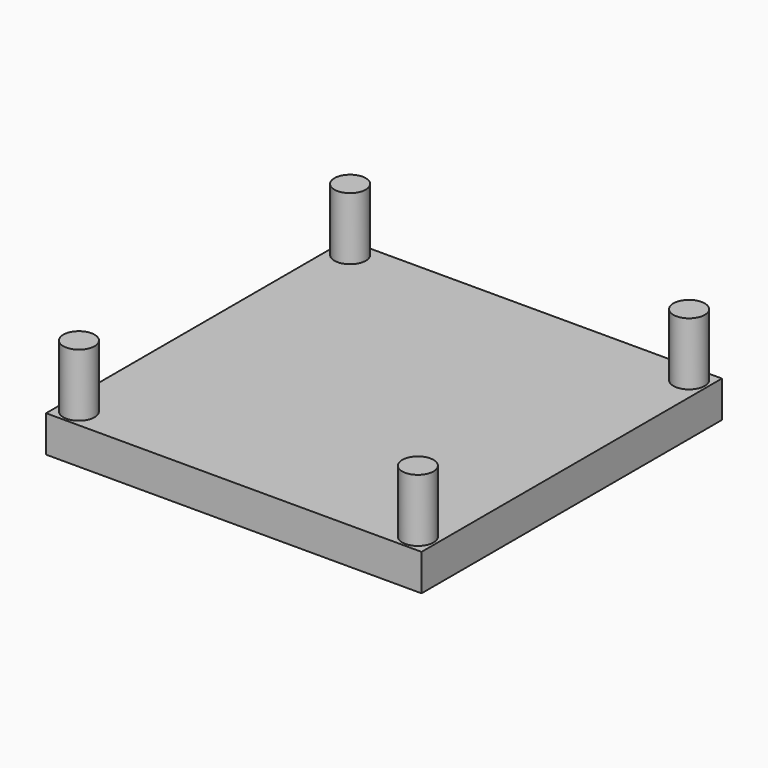
from build123d import *

# Parameters (mm, degrees)
F0_R     = 1.5
F1_DEPTH = 6
F0_W     = 36
F0_H     = 36
F2_DEPTH = 3.5
F3_W     = 4.283436
F3_H     = 8.566872
F3_W_2   = 14.717445
F3_H_2   = 3.624444
F3_R     = 2.438662
F3_W_3   = 1.64748
F3_H_3   = 11.75199
F3_R_2   = 1.537643
F3_W_4   = 4.173603
F3_H_4   = 16.145259
F3_R_3   = 4.79752
F4_DEPTH = 0.5


with BuildPart() as f1:
    # F0 (on Top) → F1 (new body)
    with BuildSketch(Plane.XY):
        with Locations((1.75, 34.25)):
            Circle(F0_R)
        with Locations((34.25, 34.25)):
            Circle(F0_R)
        with Locations((34.25, 1.75)):
            Circle(F0_R)
        with Locations((1.75, 1.75)):
            Circle(F0_R)
    extrude(amount=F1_DEPTH)


with BuildPart() as f2:
    # F0 (on Top) → F2 (new body)
    with BuildSketch(Plane.XY):
        with Locations((18, 18)):
            Rectangle(F0_W, F0_H)
        with Locations((1.75, 1.75)):
            Circle(F0_R, mode=Mode.SUBTRACT)
        with Locations((34.25, 1.75)):
            Circle(F0_R, mode=Mode.SUBTRACT)
        with Locations((1.75, 34.25)):
            Circle(F0_R, mode=Mode.SUBTRACT)
        with Locations((34.25, 34.25)):
            Circle(F0_R, mode=Mode.SUBTRACT)
    extrude(amount=-F2_DEPTH)

    # F3 (on face) → F4 (join)
    with BuildSketch(Plane(origin=(0, 0, -3.5), x_dir=(1, 0, 0), z_dir=(0, 0, -1))):
        with Locations((4.973674, -10.507443)):
            Rectangle(F3_W, F3_H)
        with Locations((21.832836, -7.267408)):
            Rectangle(F3_W_2, F3_H_2)
        with Locations((23.590142, -19.184146)):
            Circle(F3_R)
        with Locations((33.859406, -20.117715)):
            Rectangle(F3_W_3, F3_H_3)
        with Locations((24.798293, -30.057482)):
            Circle(F3_R_2)
        with Locations((16.451085, -23.632329)):
            Rectangle(F3_W_4, F3_H_4)
        with Locations((6.017075, -26.213372)):
            Circle(F3_R_3)
    extrude(amount=F4_DEPTH)


solid = Compound([f1.part, f2.part])
